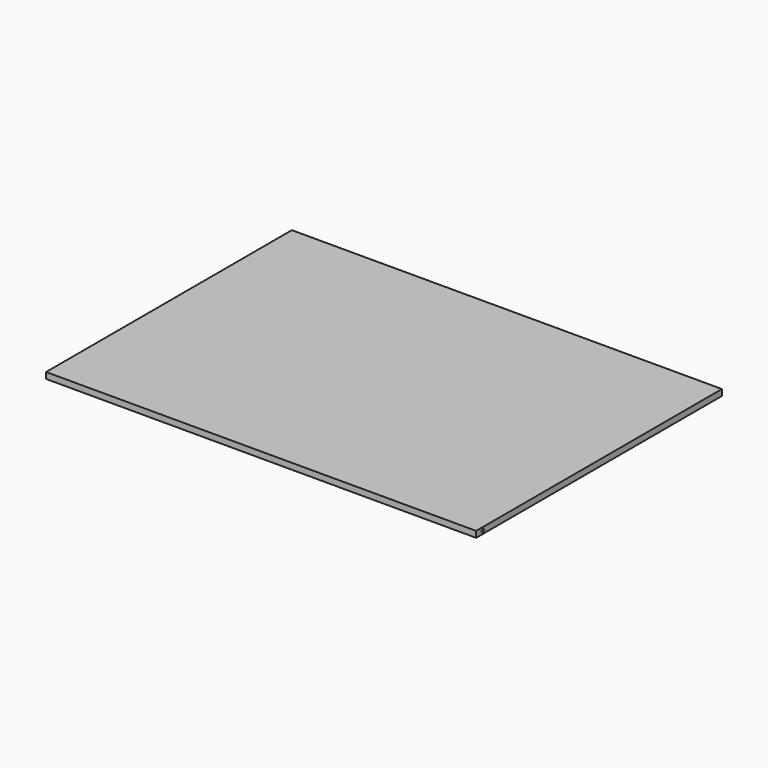
from build123d import *

# Parameters (mm, degrees)
F0_W     = 700
F0_H     = 500
F1_DEPTH = 10
F2_R     = 4.150796
F3_DEPTH = 700
F5_D     = 5


with BuildPart() as f1:
    # F0 (on Top) → F1 (new body)
    with BuildSketch(Plane.XY):
        with Locations((3.196869, -25.456903)):
            Rectangle(F0_W, F0_H)
    extrude(amount=F1_DEPTH)

    # F2 (on face) → F3 (join)
    with BuildSketch(Plane.YZ.offset(353.196869)):
        with Locations((-266.181707, 5.849204)):
            Circle(F2_R)
    extrude(amount=-F3_DEPTH)

    # F5 (through all)
    with Locations(Plane.YZ.offset(353.196869)):
        with Locations((-262.033492, 5)):
            Hole(F5_D / 2)


solid = f1.part
